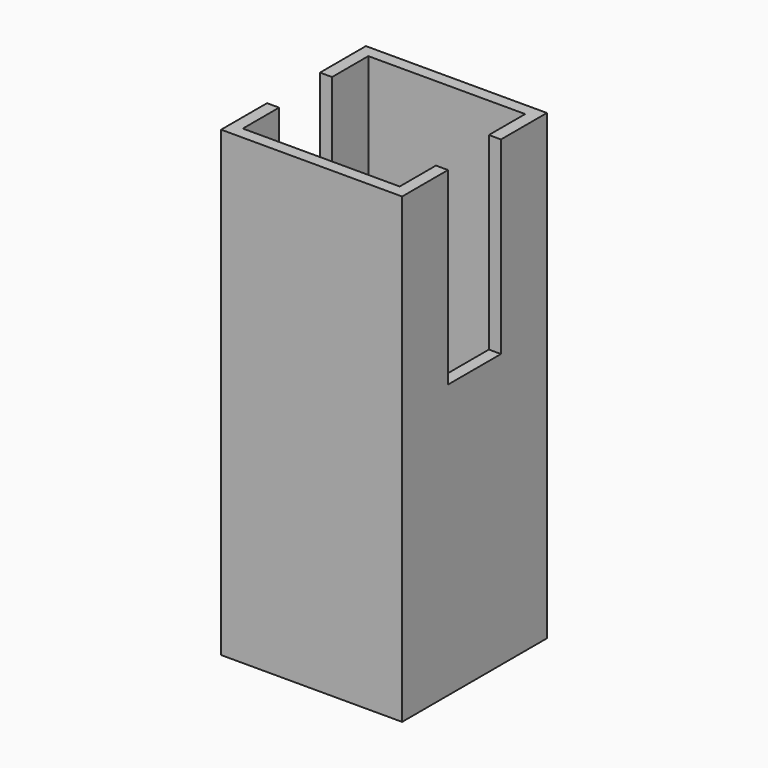
from build123d import *

# Parameters (mm, degrees)
F0_W     = 114.3
F0_H     = 114.3
F1_DEPTH = 292.1
F2_T     = -7.62
F3_W     = 41.80703
F3_H     = 120.581752
F4_DEPTH = 70.104


with BuildPart() as f1:
    # F0 (on Top) → F1 (new body)
    with BuildSketch(Plane.XY):
        Rectangle(F0_W, F0_H)
    extrude(amount=F1_DEPTH)

    # F2
    f2_openings = [f1.faces().sort_by_distance(p)[0] for p in [
        (0, 0, 292.1),
    ]]
    offset(amount=F2_T, openings=f2_openings)

    # F3 (on Right) → F4 (cut, symmetric)
    with BuildSketch(Plane.YZ):
        with Locations((0, 233.103248)):
            Rectangle(F3_W, F3_H)
    extrude(amount=F4_DEPTH, both=True, mode=Mode.SUBTRACT)


solid = f1.part
